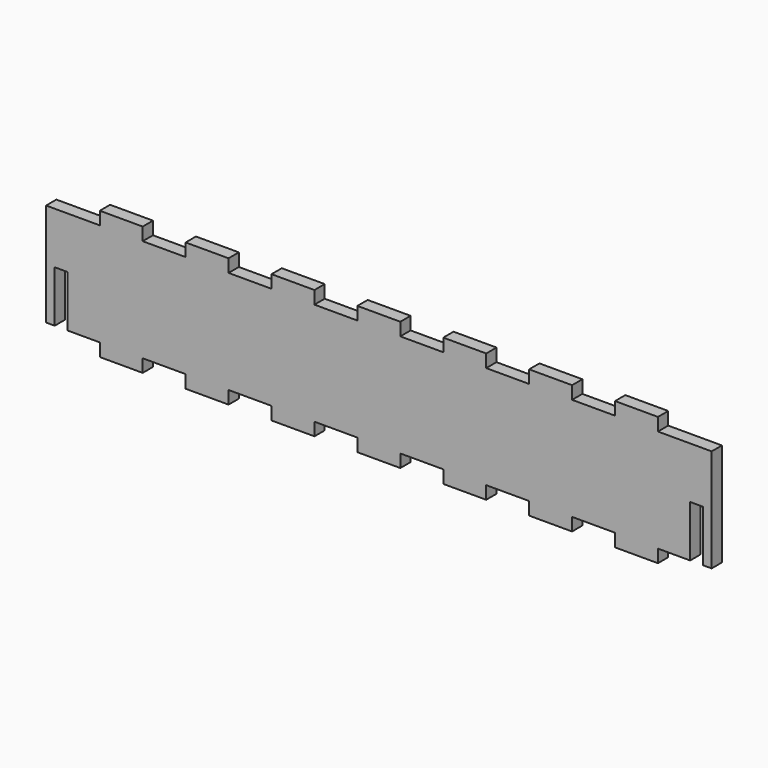
from build123d import *

# Parameters (mm, degrees)
F0_W     = 145
F0_H     = 30
F1_DEPTH = 3
F2_W     = 10
F2_H     = 3
F3_DEPTH = 25
F4_DEPTH = 5
F5_DEPTH = 5
F6_W     = 3
F6_H     = 12
F7_DEPTH = 25


with BuildPart() as f1:
    # F0 (on Front) → F1 (new body)
    with BuildSketch(Plane.XZ):
        Rectangle(F0_W, F0_H)
    extrude(amount=F1_DEPTH)

    # F2 (on face) → F3 (cut)
    with BuildSketch(Plane.XZ.offset(3)):
        with Locations((-70, -13.5)):
            Rectangle(F2_W, F2_H)
        with Locations((-70, 13.5)):
            Rectangle(F2_W, F2_H)
        with Locations((-50, -13.5)):
            Rectangle(F2_W, F2_H)
        with Locations((-50, 13.5)):
            Rectangle(F2_W, F2_H)
        with Locations((-30, -13.5)):
            Rectangle(F2_W, F2_H)
        with Locations((-30, 13.5)):
            Rectangle(F2_W, F2_H)
        with Locations((-10, -13.5)):
            Rectangle(F2_W, F2_H)
        with Locations((-10, 13.5)):
            Rectangle(F2_W, F2_H)
        with Locations((10, -13.5)):
            Rectangle(F2_W, F2_H)
        with Locations((10, 13.5)):
            Rectangle(F2_W, F2_H)
        with Locations((30, -13.5)):
            Rectangle(F2_W, F2_H)
        with Locations((30, 13.5)):
            Rectangle(F2_W, F2_H)
        with Locations((50, -13.5)):
            Rectangle(F2_W, F2_H)
        with Locations((50, 13.5)):
            Rectangle(F2_W, F2_H)
        with Locations((70, -13.5)):
            Rectangle(F2_W, F2_H)
        with Locations((70, 13.5)):
            Rectangle(F2_W, F2_H)
    extrude(amount=-F3_DEPTH, mode=Mode.SUBTRACT)

    # F4 (add): faces of the model
    f4_faces = [f1.faces().sort_by_distance(p)[0] for p in [
        (72.5, -1.5, 0),
        (-72.5, -1.5, 0),
    ]]
    extrude(f4_faces, amount=F4_DEPTH, dir=(1, 0, 0))

    # F5 (add): a face of the model
    f5_faces = [f1.faces().sort_by_distance(p)[0] for p in [
        (-72.5, -1.5, 0),
    ]]
    extrude(f5_faces, amount=F5_DEPTH)

    # F6 (on face) → F7 (cut)
    with BuildSketch(Plane(origin=(0, 0, 0), x_dir=(-1, 0, 0), z_dir=(0, 1, 0))):
        with Locations((-74, -6)):
            Rectangle(F6_W, F6_H)
        with Locations((74, -6)):
            Rectangle(F6_W, F6_H)
    extrude(amount=-F7_DEPTH, mode=Mode.SUBTRACT)


solid = f1.part
